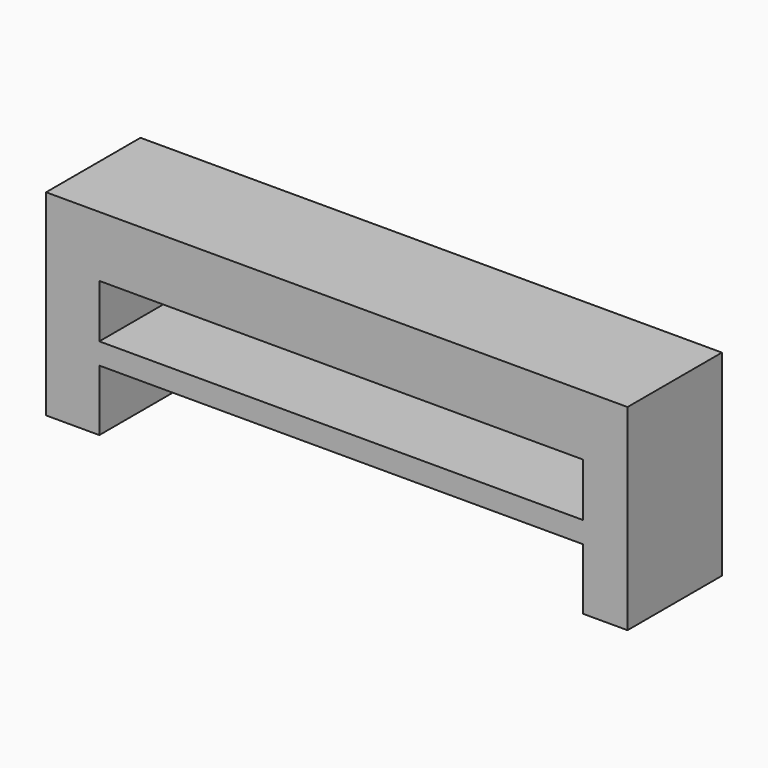
from build123d import *

# Parameters (mm, degrees)
F0_W     = 104.081774
F0_H     = 13.06754
F0_H_2   = 4.585101
F1_DEPTH = 25.4


with BuildPart() as f1:
    # F0 (on Front) → F1 (new body)
    with BuildSketch(Plane.XZ):
        Polygon((37.024684, 42.297553), (27.395973, 42.297553), (27.395973, 29.230013), (27.395973, 17.767264), (27.395973, 13.182163), (27.395973, 0), (37.024684, 0), align=None)
        with Locations((-24.644914, 35.763783)):
            Rectangle(F0_W, F0_H)
        Polygon((-76.685801, 29.230013), (-76.685801, 42.297553), (-88.148557, 42.297553), (-88.148557, 0), (-76.685801, 0), (-76.685801, 13.182163), (-76.685801, 17.767264), align=None)
        with Locations((-24.644914, 15.474714)):
            Rectangle(F0_W, F0_H_2)
    extrude(amount=F1_DEPTH)


solid = f1.part
